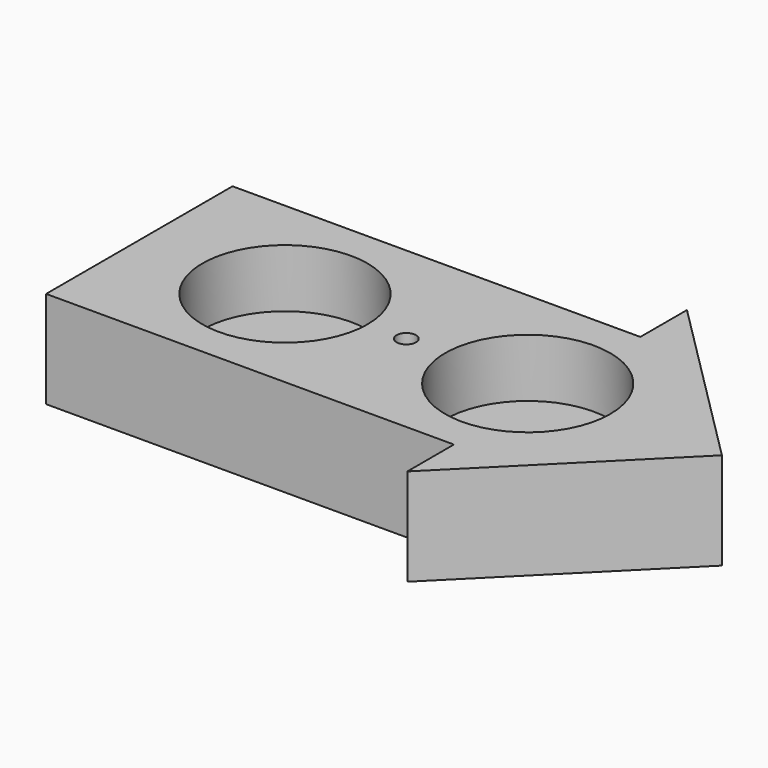
from build123d import *

# Parameters (mm, degrees)
F0_W     = 42
F0_H     = 24
F1_DEPTH = 10
F2_R     = 8.5
F3_DEPTH = 6
F4_R     = 1
F5_DEPTH = 25


with BuildPart() as f1:
    # F0 (on Top) → F1 (new body)
    with BuildSketch(Plane.XY):
        with Locations((21, 12)):
            Rectangle(F0_W, F0_H)
        Polygon((42, 24), (42, 0), (42, -6), (60, 12), (42, 30), align=None)
    extrude(amount=F1_DEPTH)

    # F2 (on face) → F3 (cut)
    with BuildSketch(Plane.XY.offset(10)):
        with Locations((15, 12)):
            Circle(F2_R)
        with Locations((40, 12)):
            Circle(F2_R)
    extrude(amount=-F3_DEPTH, mode=Mode.SUBTRACT)

    # F4 (on face) → F5 (cut)
    with BuildSketch(Plane.XY.offset(10)):
        with Locations((27.5, 12)):
            Circle(F4_R)
    extrude(amount=-F5_DEPTH, mode=Mode.SUBTRACT)


solid = f1.part
